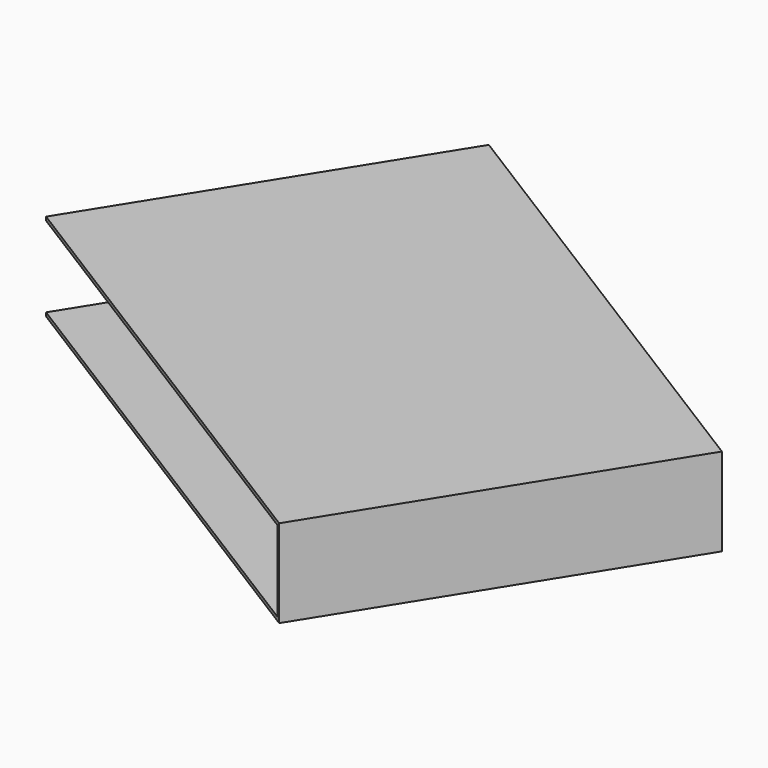
from build123d import *

# Parameters (mm, degrees)
BOX176_W               = 5
BOX176_H               = 7.45
BOX176_DEPTH           = 1.1
BOX175_W               = 5
BOX175_H               = 7.5
BOX175_DEPTH           = 1.2
CUT086_PLACEMENT_ANGLE = 122


with BuildPart() as small_cu_gnd_electrode072:
    # Box176 → Box176 (new body)
    with BuildSketch(Plane.XY.offset(0.05)):
        with Locations((2.5, 3.725)):
            Rectangle(BOX176_W, BOX176_H)
    extrude(amount=BOX176_DEPTH)


with BuildPart() as small_cu_electrode001_long_axis_v008:
    # Box175 → Box175 (new body)
    with BuildSketch(Plane.XY):
        with Locations((2.5, 3.75)):
            Rectangle(BOX175_W, BOX175_H)
    extrude(amount=BOX175_DEPTH)

    # Cut086: cut Small Cu GND Electrode072
    add(small_cu_gnd_electrode072.part, mode=Mode.SUBTRACT)


with BuildPart() as small_cu_electrode001_long_axis_v008_1:
    # Cut086 placement: moved
    add(small_cu_electrode001_long_axis_v008.part.moved(Location((-9.677147, 22.819562, 2.14))).rotate(Axis((-9.677147, 22.819562, 2.14), (0, 0, -1)), CUT086_PLACEMENT_ANGLE))


solid = small_cu_electrode001_long_axis_v008_1.part
